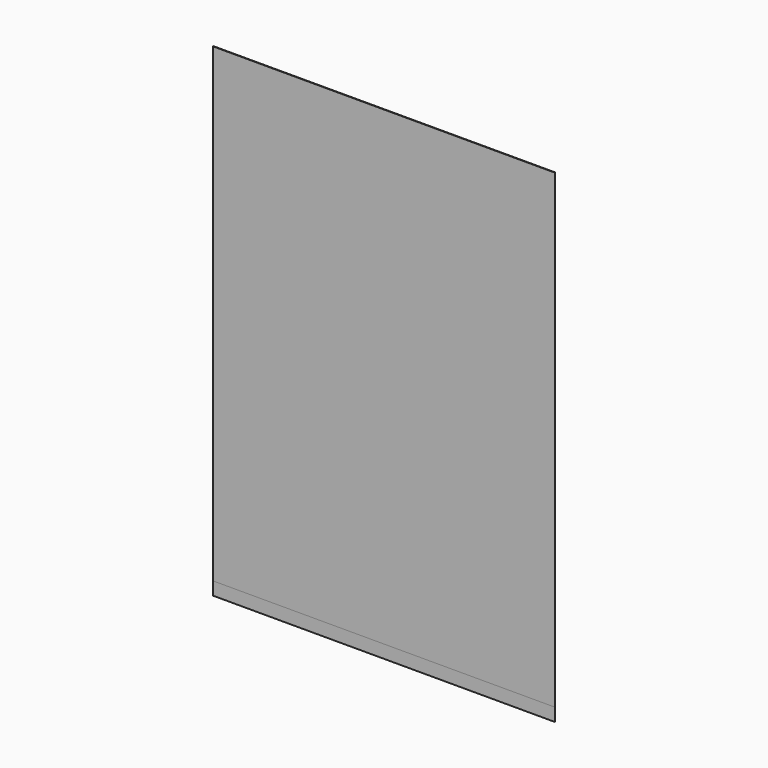
from build123d import *

# Parameters (mm, degrees)
F0_W     = 210
F0_H     = 297
F1_DEPTH = 0.3
F2_W     = 210
F2_H     = 72.25
F3_DEPTH = 0.3


with BuildPart() as f1:
    # F0 (on Front) → F1 (new body)
    with BuildSketch(Plane.XZ):
        with Locations((105, -148.5)):
            Rectangle(F0_W, F0_H)
    extrude(amount=F1_DEPTH)


with BuildPart() as f3:
    # F2 (on face) → F3 (new body)
    with BuildSketch(Plane(origin=(0, 0, 0), x_dir=(-1, 0, 0), z_dir=(0, 1, 0))):
        with Locations((-105, -36.125)):
            Rectangle(F2_W, F2_H)
        with Locations((-105, -108.375)):
            Rectangle(F2_W, F2_H)
        with Locations((-105, -180.625)):
            Rectangle(F2_W, F2_H)
        with Locations((-105, -252.875)):
            Rectangle(F2_W, F2_H)
    extrude(amount=-F3_DEPTH)


solid = Compound([f1.part, f3.part])
